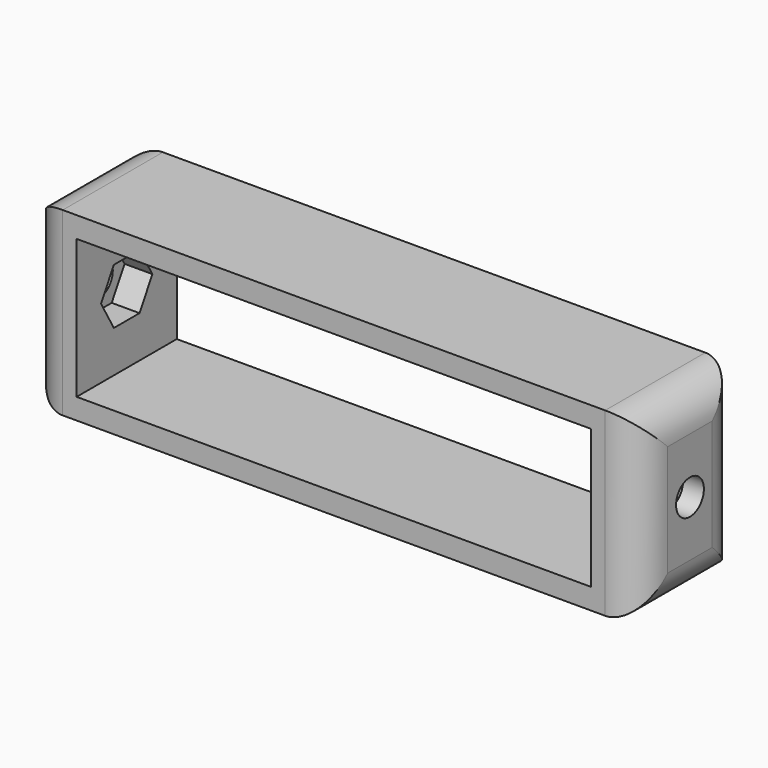
from build123d import *

# Parameters (mm, degrees)
F0_W      = 88
F0_H      = 18
F1_DEPTH  = 23
F2_W      = 74
F2_H      = 18
F3_DEPTH  = 20
F5_DEPTH  = 4
F7_DEPTH  = 4
F8_R      = 2.5
F9_DEPTH  = 3
F10_R     = 2.5
F11_DEPTH = 3
F12_W     = 88
F12_H     = 18
F13_DEPTH = 3
F15_R     = 5


with BuildPart() as f1:
    # F0 (on Top) → F1 (new body)
    with BuildSketch(Plane.XY):
        Rectangle(F0_W, F0_H)
    extrude(amount=F1_DEPTH)

    # F2 (on face) → F3 (cut)
    with BuildSketch(Plane.XY.offset(23)):
        Rectangle(F2_W, F2_H)
    extrude(amount=-F3_DEPTH, mode=Mode.SUBTRACT)

    # F4 (on face) → F5 (cut)
    with BuildSketch(Plane(origin=(37, 0, 0), x_dir=(0, -1, 0), z_dir=(-1, 0, 0))):
        Polygon((-2.309401, 9), (2.309401, 9), (4.618802, 13), (2.309401, 17), (-2.309401, 17), (-4.618802, 13), align=None)
    extrude(amount=-F5_DEPTH, mode=Mode.SUBTRACT)

    # F6 (on face) → F7 (cut)
    with BuildSketch(Plane.YZ.offset(-37)):
        Polygon((-2.309401, 9), (2.309401, 9), (4.618802, 13), (2.309401, 17), (-2.309401, 17), (-4.618802, 13), align=None)
    extrude(amount=-F7_DEPTH, mode=Mode.SUBTRACT)

    # F8 (on face) → F9 (cut, through all)
    with BuildSketch(Plane(origin=(41, 0, 0), x_dir=(0, -1, 0), z_dir=(-1, 0, 0))):
        with Locations((0, 13)):
            Circle(F8_R)
    extrude(amount=-F9_DEPTH, mode=Mode.SUBTRACT)

    # F10 (on face) → F11 (cut, through all)
    with BuildSketch(Plane.YZ.offset(-41)):
        with Locations((0, 13)):
            Circle(F10_R)
    extrude(amount=-F11_DEPTH, mode=Mode.SUBTRACT)


with BuildPart() as f13:
    # F12 (on face) → F13 (new body)
    with BuildSketch(Plane.XY.offset(23)):
        Rectangle(F12_W, F12_H)
    extrude(amount=F13_DEPTH)


with BuildPart() as f1_1:
    add(f1.part)

    # F14: union F13
    add(f13.part)

    # F15
    f15_edges = [f1_1.edges().sort_by_distance(p)[0] for p in [
        (-44, 0, 26),
        (-44, 0, 0),
        (44, 0, 26),
        (44, 0, 0),
        (-44, -9, 13),
        (-44, 9, 13),
        (44, -9, 13),
        (44, 9, 13),
    ]]
    fillet(f15_edges, radius=F15_R)


solid = f1_1.part
